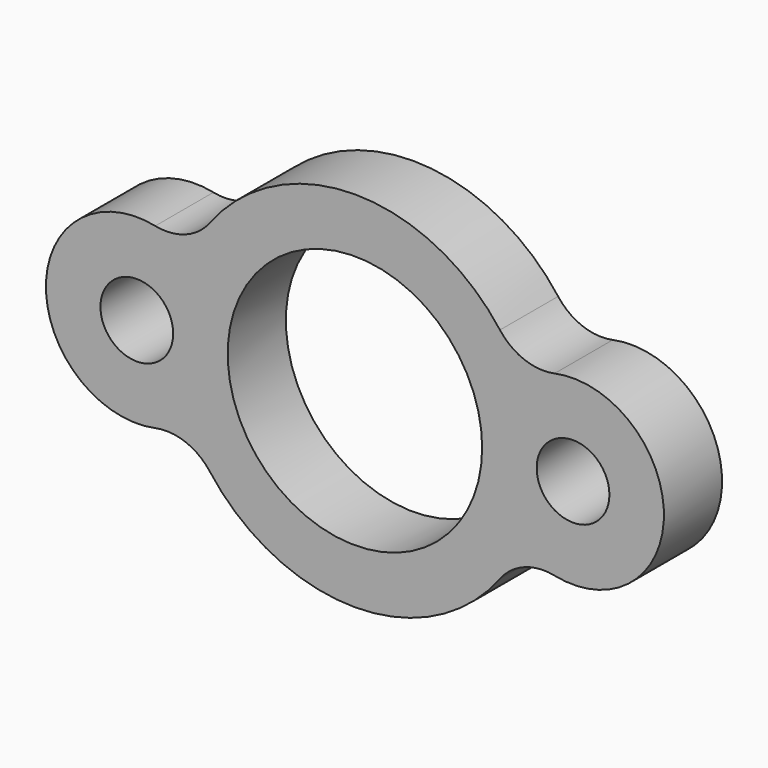
from build123d import *

# Parameters (mm, degrees)
F0_R     = 12.7
F0_R_2   = 44.45
F1_DEPTH = 25.4
F2_DEPTH = 25.4
F3_DEPTH = 25.4


with BuildPart() as f1:
    # F0 (on Front) → F1 (new body)
    with BuildSketch(Plane.XZ):
        with BuildLine():
            ThreePointArc((-69.75078125, -31.0881018641), (-59.174450896, -31.9106139737), (-50.6778846154, -38.2622792174))
            ThreePointArc((-50.6778846154, -38.2622792174), (0, -63.5), (50.6778846154, -38.2622792174))
            ThreePointArc((50.6778846154, -38.2622792174), (59.174450896, -31.9106139737), (69.75078125, -31.0881018641))
            ThreePointArc((69.75078125, -31.0881018641), (107.95, 0), (69.75078125, 31.0881018641))
            ThreePointArc((69.75078125, 31.0881018641), (59.174450896, 31.9106139737), (50.6778846154, 38.2622792174))
            ThreePointArc((50.6778846154, 38.2622792174), (0, 63.5), (-50.6778846154, 38.2622792174))
            ThreePointArc((-50.6778846154, 38.2622792174), (-59.174450896, 31.9106139737), (-69.75078125, 31.0881018641))
            ThreePointArc((-69.75078125, 31.0881018641), (-107.95, 0), (-69.75078125, -31.0881018641))
        make_face()
        with Locations((-76.2, 0)):
            Circle(F0_R, mode=Mode.SUBTRACT)
        Circle(F0_R_2, mode=Mode.SUBTRACT)
        with BuildLine():
            ThreePointArc((63.5, 0), (76.2, 12.7), (88.9, 0))
            ThreePointArc((88.9, 0), (76.2, -12.7), (63.5, 0))
        make_face(mode=Mode.SUBTRACT)
    extrude(amount=F1_DEPTH)

    # F0 (on Front) → F2 (join)
    with BuildSketch(Plane.XZ):
        with BuildLine():
            ThreePointArc((-69.75078125, -31.0881018641), (-59.174450896, -31.9106139737), (-50.6778846154, -38.2622792174))
            ThreePointArc((-50.6778846154, -38.2622792174), (0, -63.5), (50.6778846154, -38.2622792174))
            ThreePointArc((50.6778846154, -38.2622792174), (59.174450896, -31.9106139737), (69.75078125, -31.0881018641))
            ThreePointArc((69.75078125, -31.0881018641), (107.95, 0), (69.75078125, 31.0881018641))
            ThreePointArc((69.75078125, 31.0881018641), (59.174450896, 31.9106139737), (50.6778846154, 38.2622792174))
            ThreePointArc((50.6778846154, 38.2622792174), (0, 63.5), (-50.6778846154, 38.2622792174))
            ThreePointArc((-50.6778846154, 38.2622792174), (-59.174450896, 31.9106139737), (-69.75078125, 31.0881018641))
            ThreePointArc((-69.75078125, 31.0881018641), (-107.95, 0), (-69.75078125, -31.0881018641))
        make_face()
        with Locations((-76.2, 0)):
            Circle(F0_R, mode=Mode.SUBTRACT)
        Circle(F0_R_2, mode=Mode.SUBTRACT)
        with BuildLine():
            ThreePointArc((63.5, 0), (76.2, 12.7), (88.9, 0))
            ThreePointArc((88.9, 0), (76.2, -12.7), (63.5, 0))
        make_face(mode=Mode.SUBTRACT)
    extrude(amount=F2_DEPTH)

    # F0 (on Front) → F3 (cut)
    with BuildSketch(Plane.XZ):
        Circle(F0_R_2)
    extrude(amount=-F3_DEPTH, mode=Mode.SUBTRACT)


solid = f1.part
